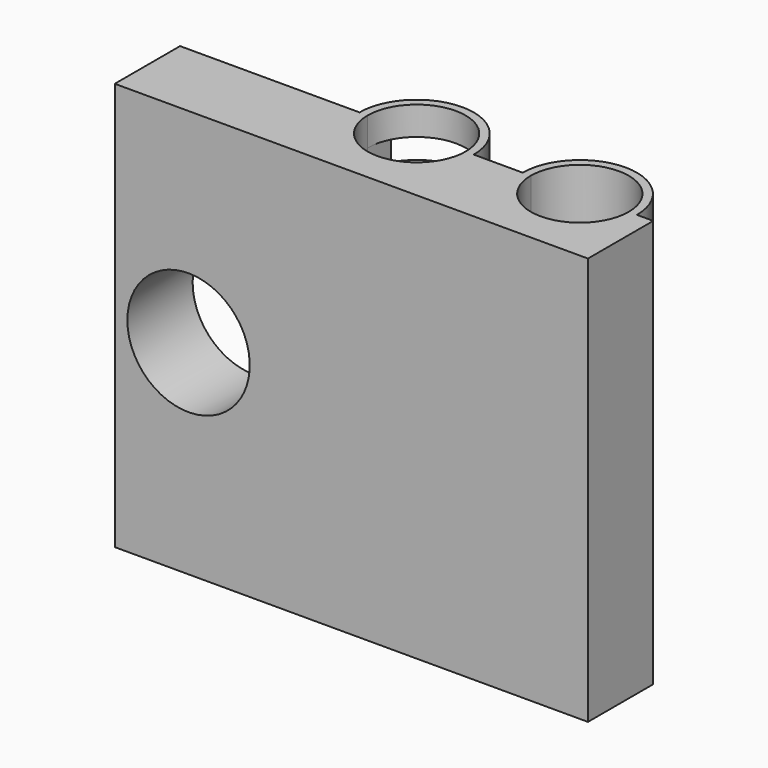
from build123d import *

# Parameters (mm, degrees)
F0_W     = 145
F0_H     = 125
F1_DEPTH = 25
F3_R     = 17.5
F3_R_2   = 15
F4_DEPTH = 62.5
F2_W     = 30
F2_H     = 7.5
F5_DEPTH = 25
F6_DEPTH = 25
F2_R     = 18.75
F7_DEPTH = 2000
F8_DEPTH = 12500


with BuildPart() as f1:
    # F0 (on Front) → F1 (new body)
    with BuildSketch(Plane.XZ):
        Rectangle(F0_W, F0_H)
    extrude(amount=F1_DEPTH)

    # F3 (on Top) → F4 (join, symmetric)
    with BuildSketch(Plane.XY):
        Circle(F3_R)
        Circle(F3_R_2, mode=Mode.SUBTRACT)
        with Locations((50, 0)):
            Circle(F3_R)
        with Locations((50, 0)):
            Circle(F3_R_2, mode=Mode.SUBTRACT)
    extrude(amount=F4_DEPTH, both=True)

    # F2 (on face) → F5 (cut)
    with BuildSketch(Plane(origin=(0, 0, 0), x_dir=(-1, 0, 0), z_dir=(0, 1, 0))):
        with Locations((0, 50)):
            Rectangle(F2_W, F2_H)
        with Locations((0, -50)):
            Rectangle(F2_W, F2_H)
    extrude(amount=F5_DEPTH, mode=Mode.SUBTRACT)

    # F2 (on face) → F6 (cut)
    with BuildSketch(Plane(origin=(0, 0, 0), x_dir=(-1, 0, 0), z_dir=(0, 1, 0))):
        with Locations((-50, 0)):
            Rectangle(F2_W, F2_H)
    extrude(amount=F6_DEPTH, mode=Mode.SUBTRACT)

    # F2 (on face) → F7 (cut)
    with BuildSketch(Plane(origin=(0, 0, 0), x_dir=(-1, 0, 0), z_dir=(0, 1, 0))):
        with Locations((49.892824, 0)):
            Circle(F2_R)
    extrude(amount=-F7_DEPTH, mode=Mode.SUBTRACT)

    # F3 (on Top) → F8 (cut, symmetric)
    with BuildSketch(Plane.XY):
        with Locations((50, 0)):
            Circle(F3_R_2)
        Circle(F3_R_2)
    extrude(amount=F8_DEPTH, both=True, mode=Mode.SUBTRACT)


solid = f1.part
